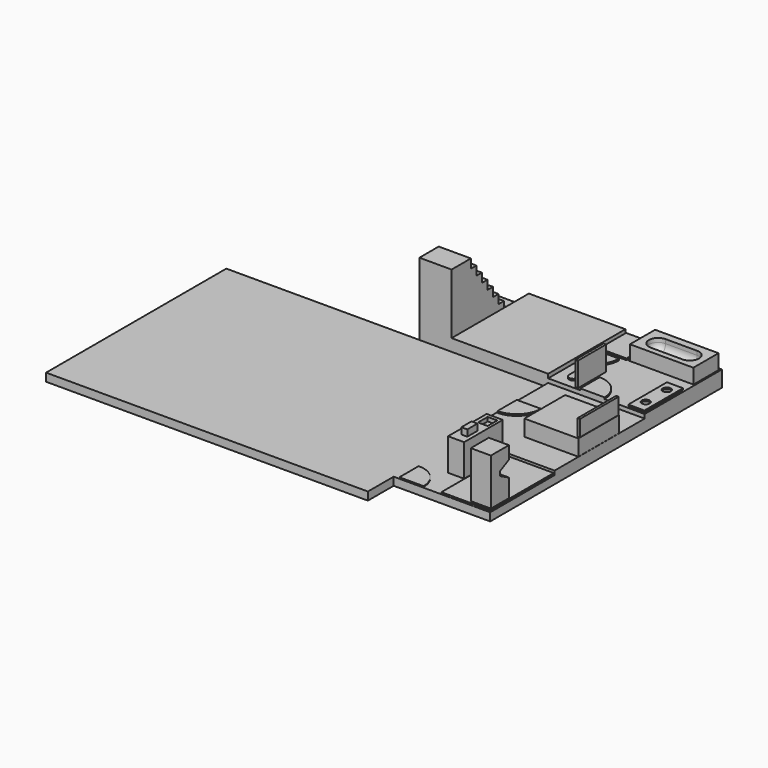
from build123d import *

# Parameters (mm, degrees)
PAD_DEPTH       = 1
SKETCH001_W     = 12
SKETCH001_H     = 12
PAD001_DEPTH    = 1
SKETCH002_W     = 12
SKETCH002_H     = 14
PAD002_DEPTH    = 0.5
SKETCH003_W     = 12
SKETCH003_H     = 12
PAD003_DEPTH    = 1.5
PAD004_DEPTH    = 4
SKETCH005_W     = 8
SKETCH005_H     = 4
POCKET_DEPTH    = 0.2
PAD005_DEPTH    = 0.2
SKETCH007_W     = 2
SKETCH007_H     = 6
PAD006_DEPTH    = 0.2
SKETCH008_R     = 0.5
POCKET001_DEPTH = 0.2
SKETCH009_W     = 3.383523
SKETCH009_H     = 4.158913
PAD007_DEPTH    = 0.2
PAD008_DEPTH    = 0.2
SKETCH011_W     = 0.321104
SKETCH011_H     = 4.367
PAD009_DEPTH    = 3
PAD010_DEPTH    = 0.2
SKETCH013_W     = 2
SKETCH013_H     = 6
PAD011_DEPTH    = 4
SKETCH014_W     = 6
SKETCH014_H     = 10
PAD012_DEPTH    = 0.2
PAD013_DEPTH    = 0.2
SKETCH016_W     = 2.5
SKETCH016_H     = 2.8
PAD014_DEPTH    = 6
SKETCH018_W     = 1.2
SKETCH018_H     = 1.5
POCKET002_DEPTH = 0.5
SKETCH019_W     = 2
SKETCH019_H     = 2.8
POCKET003_DEPTH = 0.1
SKETCH020_W     = 0.738537
SKETCH020_H     = 1.573408
PAD015_DEPTH    = 0.8
SKETCH021_W     = 1.524805
SKETCH021_H     = 0.946431
PAD016_DEPTH    = 0.1
POCKET004_DEPTH = 5
SKETCH023_W     = 1.745958
SKETCH023_H     = 0.71265
POCKET005_DEPTH = 0.1
SKETCH024_W     = 6.7
SKETCH024_H     = 6.33
PAD017_DEPTH    = 2
SKETCH025_W     = 0.3
SKETCH025_H     = 6
PAD018_DEPTH    = 2
SKETCH026_W     = 7.882242
SKETCH026_H     = 3.90727
PAD019_DEPTH    = 2
POCKET006_DEPTH = 1.5
FILLET_R        = 1
PAD020_DEPTH    = 0.1


with BuildPart() as part:
    # Sketch → Pad (new body)
    with BuildSketch(Plane.XY):
        Polygon((0, -28), (-40, -28), (-40, 0), (-16, 0), (-16, 12), (12, 12), (12, -24), (0, -24), align=None)
    extrude(amount=PAD_DEPTH)

    # Sketch001 (on Face10 of Pad) → Pad001 (join)
    with BuildSketch(Plane.XY.offset(1)):
        with Locations((6, 6)):
            Rectangle(SKETCH001_W, SKETCH001_H)
    extrude(amount=PAD001_DEPTH)

    # Sketch002 (on Face5 of Pad001) → Pad002 (join)
    with BuildSketch(Plane.XY.offset(1)):
        with Locations((6, -7)):
            Rectangle(SKETCH002_W, SKETCH002_H)
    extrude(amount=PAD002_DEPTH)

    # Sketch003 (on Face5 of Pad002) → Pad003 (join)
    with BuildSketch(Plane.XY.offset(1)):
        with Locations((-6, 6)):
            Rectangle(SKETCH003_W, SKETCH003_H)
    extrude(amount=PAD003_DEPTH)

    # Sketch004 (on Face8 of Pad003) → Pad004 (join)
    with BuildSketch(Plane(origin=(-16, 0, 0), x_dir=(0, -1, 0), z_dir=(-1, 0, 0))):
        Polygon((-12, 0), (-12, 1), (-9, 1), (-9, 2.1249999998), (-8.1428571429, 2.1249999998), (-8.1428571429, 3.2499999997), (-7.2857142857, 3.2499999997), (-7.2857142857, 4.3749999997), (-6.4285714286, 4.3749999997), (-6.4285714286, 5.4999999997), (-5.5714285714, 5.4999999997), (-5.5714285714, 6.6249999997), (-4.7142857143, 6.6249999997), (-4.7142857143, 7.7499999998), (-3.8571428571, 7.7499999998), (-3.8571428571, 8.8749999999), (-3, 8.8749999999), (-3, 10), (0, 10), (0, 0), align=None)
    extrude(amount=-PAD004_DEPTH)

    # Sketch005 (on Face29 of Pad004) → Pocket (cut)
    with BuildSketch(Plane.XY.offset(2)):
        with Locations((7.8244701681, 9.794484)):
            Rectangle(SKETCH005_W, SKETCH005_H)
    extrude(amount=-POCKET_DEPTH, mode=Mode.SUBTRACT)

    # Sketch006 (on Face29 of Pocket) → Pad005 (join)
    with BuildSketch(Plane.XY.offset(2)):
        with BuildLine():
            ThreePointArc((7, 0), (6.1213203436, 2.1213203436), (4, 3))
            Line((4, 3), (4, 0))
            Line((4, 0), (7, 0))
        make_face()
    extrude(amount=PAD005_DEPTH)

    # Sketch007 (on Face29 of Pad005) → Pad006 (join)
    with BuildSketch(Plane.XY.offset(2)):
        with Locations((10.75453, 3.2614561845)):
            Rectangle(SKETCH007_W, SKETCH007_H)
    extrude(amount=PAD006_DEPTH)

    # Sketch008 (on Face58 of Pad006) → Pocket001 (cut)
    with BuildSketch(Plane.XY.offset(2.2)):
        with Locations((10.739349, 5.010931)):
            Circle(SKETCH008_R)
        with Locations((10.739349, 1.739257)):
            Circle(SKETCH008_R)
    extrude(amount=-POCKET001_DEPTH, mode=Mode.SUBTRACT)

    # Sketch009 (on Face29 of Pocket001) → Pad007 (join)
    with BuildSketch(Plane.XY.offset(2)):
        with Locations((1.8727195, 9.8045235)):
            Rectangle(SKETCH009_W, SKETCH009_H)
    extrude(amount=PAD007_DEPTH)

    # Sketch010 (on Face29 of Pad007) → Pad008 (join)
    with BuildSketch(Plane.XY.offset(2)):
        with BuildLine():
            ThreePointArc((2.40198, 3.464925), (1.876188, 3.990717), (1.350396, 3.464925))
            Line((1.350396, 3.464925), (1.350396, 1.572068))
            ThreePointArc((1.350396, 1.572068), (1.876188, 1.046276), (2.40198, 1.572068))
            Line((2.40198, 3.464925), (2.40198, 1.572068))
        make_face()
    extrude(amount=PAD008_DEPTH)

    # Sketch011 (on Face29 of Pad008) → Pad009 (join)
    with BuildSketch(Plane.XY.offset(2)):
        with Locations((3.379871, 2.379998)):
            Rectangle(SKETCH011_W, SKETCH011_H)
    extrude(amount=PAD009_DEPTH)

    # Sketch012 (on Face29 of Pad009) → Pad010 (join)
    with BuildSketch(Plane.XY.offset(2)):
        with BuildLine():
            ThreePointArc((0.0127659439, 4.2328060849), (2.1340862875, 5.1114857414), (3.0127659439, 7.2328060849))
            Line((3.0127659439, 7.2328060849), (0.0127659439, 7.2328060849))
            Line((0.0127659439, 7.2328060849), (0.0127659439, 4.2328060849))
        make_face()
    extrude(amount=PAD010_DEPTH)

    # Sketch013 (on Face5 of Pad010) → Pad011 (join)
    with BuildSketch(Plane.XY.offset(1)):
        with Locations((4.6129902875, -17.0670078745)):
            Rectangle(SKETCH013_W, SKETCH013_H)
    extrude(amount=PAD011_DEPTH)

    # Sketch014 (on Face5 of Pad011) → Pad012 (join)
    with BuildSketch(Plane.XY.offset(1)):
        with Locations((8.8879963878, -18.9493321845)):
            Rectangle(SKETCH014_W, SKETCH014_H)
    extrude(amount=PAD012_DEPTH)

    # Sketch015 (on Face29 of Pad012) → Pad013 (join)
    with BuildSketch(Plane.XY.offset(1.5)):
        with BuildLine():
            ThreePointArc((0.0906927099, -7.9815394859), (2.2120130535, -7.1028598295), (3.0906927099, -4.9815394859))
            Line((3.0906927099, -4.9815394859), (0.0906927099, -4.9815394859))
            Line((0.0906927099, -4.9815394859), (0.0906927099, -7.9815394859))
        make_face()
    extrude(amount=PAD013_DEPTH)

    # Sketch016 (on Face5 of Pad013) → Pad014 (join)
    with BuildSketch(Plane.XY.offset(1)):
        with Locations((10.5483907095, -22.2439987125)):
            Rectangle(SKETCH016_W, SKETCH016_H)
    extrude(amount=PAD014_DEPTH)

    # Sketch018 (on Face36 of Pad014) → Pocket002 (cut)
    with BuildSketch(Plane.XY.offset(5)):
        with Locations((4.6740733219, -15.2416696781)):
            Rectangle(SKETCH018_W, SKETCH018_H)
    extrude(amount=-POCKET002_DEPTH, mode=Mode.SUBTRACT)

    # Sketch019 (on Face21 of Pocket002) → Pocket003 (cut)
    with BuildSketch(Plane(origin=(3.6129902875, 0, 0), x_dir=(0, -1, 0), z_dir=(-1, 0, 0))):
        with Locations((18.8170917125, 2.5448113219)):
            Rectangle(SKETCH019_W, SKETCH019_H)
    extrude(amount=-POCKET003_DEPTH, mode=Mode.SUBTRACT)

    # Sketch020 (on Face36 of Pocket003) → Pad015 (join)
    with BuildSketch(Plane.XY.offset(5)):
        with Locations((4.7687005, -18.196731)):
            Rectangle(SKETCH020_W, SKETCH020_H)
    extrude(amount=PAD015_DEPTH)

    # Sketch021 (on Face44 of Pad015) → Pad016 (join)
    with BuildSketch(Plane(origin=(0, -20.8439987125, 0), x_dir=(-1, 0, 0), z_dir=(0, 1, 0))):
        with Locations((-10.5244535, 6.0330185)):
            Rectangle(SKETCH021_W, SKETCH021_H)
    extrude(amount=PAD016_DEPTH)

    # Sketch022 (on Face45 of Pad016) → Pocket004 (cut)
    with BuildSketch(Plane.YZ.offset(11.7983907095)):
        Polygon((-20.527332, 3.292079), (-22.183851, 4.155583), (-22.254341, 4.701882), (-20.527332, 5.565385), align=None)
    extrude(amount=-POCKET004_DEPTH, mode=Mode.SUBTRACT)

    # Sketch023 (on Face101 of Pocket004) → Pocket005 (cut)
    with BuildSketch(Plane(origin=(0, -3.0366433765, -5.8254014449), x_dir=(1, 0, 0), z_dir=(0, 0.4622433354, 0.8867531217))):
        with Locations((10.59525, -20.547228)):
            Rectangle(SKETCH023_W, SKETCH023_H)
    extrude(amount=-POCKET005_DEPTH, mode=Mode.SUBTRACT)

    # Sketch024 (on Face29 of Pocket005) → Pad017 (join)
    with BuildSketch(Plane.XY.offset(1.5)):
        with Locations((8.6312609088, -7.1204113075)):
            Rectangle(SKETCH024_W, SKETCH024_H)
    extrude(amount=PAD017_DEPTH)

    # Sketch025 (on Face110 of Pad017) → Pad018 (join)
    with BuildSketch(Plane.XY.offset(3.5)):
        with Locations((11.800813, -6.9834993219)):
            Rectangle(SKETCH025_W, SKETCH025_H)
    extrude(amount=PAD018_DEPTH)

    # Sketch026 (on Face120 of Pad018) → Pad019 (join)
    with BuildSketch(Plane.XY.offset(1.8)):
        with Locations((7.82612, 9.807974)):
            Rectangle(SKETCH026_W, SKETCH026_H)
    extrude(amount=PAD019_DEPTH)

    # Sketch027 (on Face144 of Pad019) → Pocket006 (cut)
    with BuildSketch(Plane.XY.offset(3.8)):
        with BuildLine():
            ThreePointArc((5.903537, 10.860499), (4.754228, 9.71119), (5.903537, 8.561881))
            Line((5.903537, 8.561881), (9.843761, 8.561881))
            ThreePointArc((9.843761, 8.561881), (10.99307, 9.71119), (9.843761, 10.860499))
            Line((5.903537, 10.860499), (9.843761, 10.860499))
        make_face()
    extrude(amount=-POCKET006_DEPTH, mode=Mode.SUBTRACT)

    # Fillet
    fillet_edges = [part.edges().sort_by_distance(p)[0] for p in [
        (7.873649, 10.860499, 2.3),
    ]]
    fillet(fillet_edges, radius=FILLET_R)

    # Sketch017 (on Face5 of Pad014) → Pad020 (join)
    with BuildSketch(Plane.XY.offset(1)):
        with BuildLine():
            ThreePointArc((3.6318966642, -23.8926850513), (2.7504200176, -21.7764964464), (0.6319071596, -20.9006205647))
            Line((0.6319071596, -23.9006205647), (0.6319071596, -20.9006205647))
            Line((3.6318966642, -23.8926850513), (0.6319071596, -23.9006205647))
        make_face()
    extrude(amount=PAD020_DEPTH)


solid = part.part
